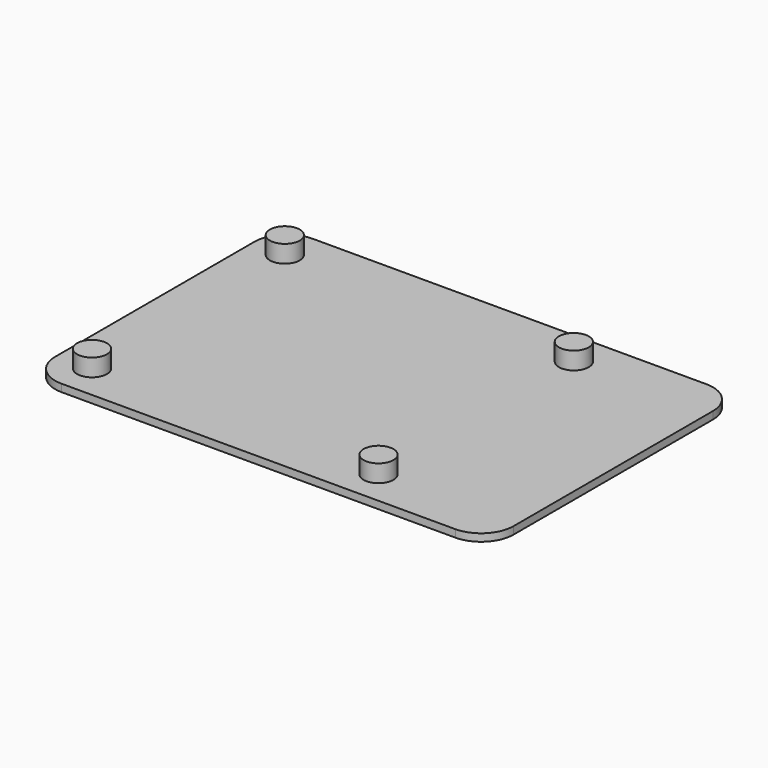
from build123d import *

# Parameters (mm, degrees)
F2_DEPTH = 1.5
F3_R     = 3
F5_DEPTH = 3.5


with BuildPart() as f2:
    # F1 (on Top) → F2 (new body)
    with BuildSketch(Plane.XY):
        with BuildLine():
            Line((39.5, 31.5), (-39.5, 31.5))
            ThreePointArc((-39.5, 31.5), (-44.0961940777, 29.5961940777), (-46, 25))
            Line((-46, 25), (-46, -25))
            ThreePointArc((-46, -25), (-44.0961940777, -29.5961940777), (-39.5, -31.5))
            Line((-39.5, -31.5), (39.5, -31.5))
            ThreePointArc((39.5, -31.5), (44.0961940777, -29.5961940777), (46, -25))
            Line((46, -25), (46, 25))
            ThreePointArc((46, 25), (44.0961940777, 29.5961940777), (39.5, 31.5))
        make_face()
    extrude(amount=F2_DEPTH)

    # F3 (on face) → F5 (join, through all)
    with BuildSketch(Plane.XY.offset(1.5)):
        with Locations((-39.5, 24.5)):
            Circle(F3_R)
        with Locations((18.5, 24.5)):
            Circle(F3_R)
        with Locations((-39, -24.5)):
            Circle(F3_R)
        with Locations((18.5, -24.5)):
            Circle(F3_R)
    extrude(amount=F5_DEPTH)


solid = f2.part
